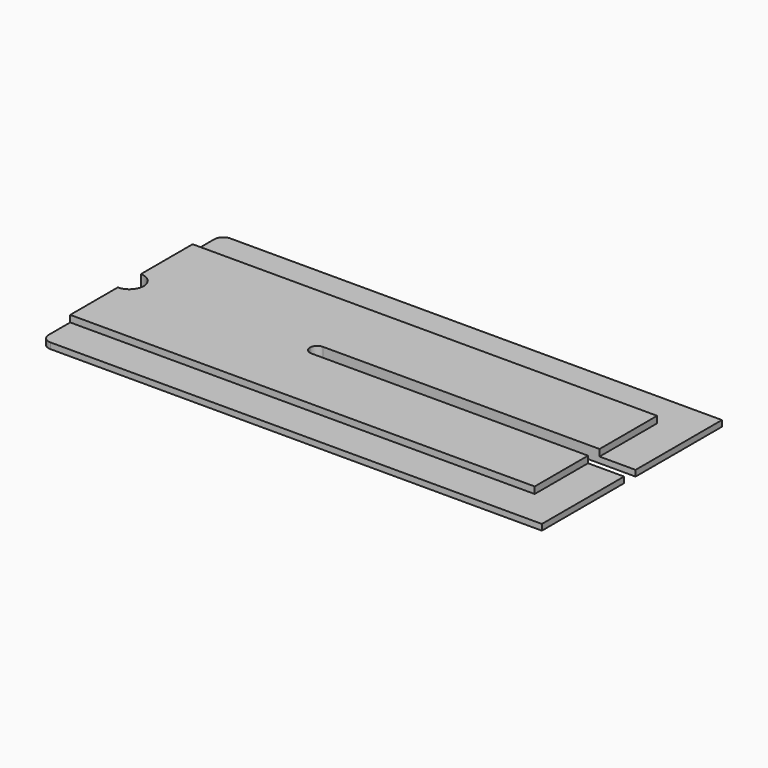
from build123d import *

# Parameters (mm, degrees)
F1_DEPTH  = 7
F3_DEPTH  = 25
F5_DEPTH  = 25
F7_DEPTH  = 25
F8_W      = 20
F8_H      = 59.9582853711
F8_H_2    = 57.0417146289
F9_DEPTH  = 3.7
F11_DEPTH = 3.7


with BuildPart() as f1:
    # F0 (on Top) → F1 (new body)
    with BuildSketch(Plane.XY):
        with BuildLine():
            Line((177.6268834546, 63.9582853711), (-95.3731165454, 63.9582853711))
            ThreePointArc((-95.3731165454, 63.9582853711), (-98.9086504513, 62.493819277), (-100.3731165454, 58.9582853711))
            Line((-100.3731165454, 58.9582853711), (-100.3731165454, -56.0417146289))
            ThreePointArc((-100.3731165454, -56.0417146289), (-98.9086504513, -59.5772485349), (-95.3731165454, -61.0417146289))
            Line((-95.3731165454, -61.0417146289), (177.6268834546, -61.0417146289))
            Line((177.6268834546, -61.0417146289), (177.6268834546, 63.9582853711))
        make_face()
    extrude(amount=F1_DEPTH)

    # F2 (on face) → F3 (cut)
    with BuildSketch(Plane.XY.offset(7)):
        with BuildLine():
            Line((177.6268834546, -4), (177.6268834546, 0))
            Line((177.6268834546, 0), (0, 0))
            ThreePointArc((0, 0), (1.1715728753, -2.8284271247), (4, -4))
            Line((4, -4), (177.6268834546, -4))
        make_face()
        with BuildLine():
            Line((177.6268834546, -4), (177.6268834546, 0))
            Line((177.6268834546, 0), (0, 0))
            ThreePointArc((0, 0), (1.1715728753, -2.8284271247), (4, -4))
            Line((4, -4), (177.6268834546, -4))
        make_face()
    extrude(amount=-F3_DEPTH, mode=Mode.SUBTRACT)

    # F4 (on face) → F5 (cut)
    with BuildSketch(Plane.XY.offset(7)):
        with BuildLine():
            ThreePointArc((4, 4), (1.1715728753, 2.8284271247), (0, 0))
            Line((0, 0), (177.6268834546, 0))
            Line((177.6268834546, 0), (177.6268834546, 4))
            Line((177.6268834546, 4), (4, 4))
        make_face()
    extrude(amount=-F5_DEPTH, mode=Mode.SUBTRACT)

    # F6 (on face) → F7 (cut)
    with BuildSketch(Plane.XY.offset(7)):
        with BuildLine():
            ThreePointArc((-100.3731165454, -7.9999726506), (-94.7027443402, -5.6642452842), (-92.3521978855, 0))
            ThreePointArc((-92.3521978855, 0), (-94.7027443402, 5.6642452842), (-100.3731165454, 7.9999726506))
            Line((-100.3731165454, 7.9999726506), (-100.3731165454, -7.9999726506))
        make_face()
    extrude(amount=-F7_DEPTH, mode=Mode.SUBTRACT)

    # F8 (on face) → F9 (cut)
    with BuildSketch(Plane.XY.offset(7)):
        with Locations((167.6268834546, 33.9791426855)):
            Rectangle(F8_W, F8_H)
        with Locations((167.6268834546, -32.5208573145)):
            Rectangle(F8_W, F8_H_2)
    extrude(amount=-F9_DEPTH, mode=Mode.SUBTRACT)

    # F10 (on face) → F11 (cut)
    with BuildSketch(Plane.XY.offset(7)):
        with BuildLine():
            Line((157.6268834546, 43.9582853711), (157.6268834546, 63.9582853711))
            Line((157.6268834546, 63.9582853711), (-95.3731165454, 63.9582853711))
            ThreePointArc((-95.3731165454, 63.9582853711), (-98.9086504513, 62.493819277), (-100.3731165454, 58.9582853711))
            Line((-100.3731165454, 58.9582853711), (-100.3731165454, 43.9582853711))
            Line((-100.3731165454, 43.9582853711), (157.6268834546, 43.9582853711))
        make_face()
        with BuildLine():
            Line((157.6268834546, -41.0417146289), (-100.3731165454, -41.0417146289))
            Line((-100.3731165454, -41.0417146289), (-100.3731165454, -56.0417146289))
            ThreePointArc((-100.3731165454, -56.0417146289), (-98.9086504513, -59.5772485349), (-95.3731165454, -61.0417146289))
            Line((-95.3731165454, -61.0417146289), (157.6268834546, -61.0417146289))
            Line((157.6268834546, -61.0417146289), (157.6268834546, -41.0417146289))
        make_face()
    extrude(amount=-F11_DEPTH, mode=Mode.SUBTRACT)


solid = f1.part
